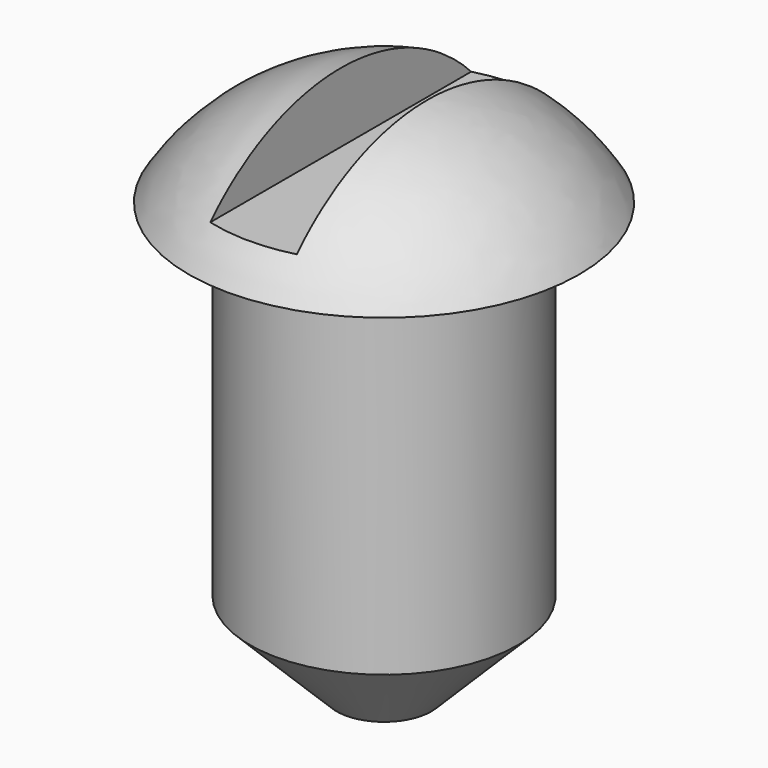
from build123d import *

# Parameters (mm, degrees)
F3_W     = 2.54
F3_H     = 10.16
F4_DEPTH = 25.4
F5_SIZE  = 2.54


with BuildPart() as f1:
    # F0 (on Front) → F1 (revolve)
    with BuildSketch(Plane.XZ):
        with BuildLine():
            Line((0, 9.113751), (0, 0))
            Line((0, 0), (3.932627, 0))
            Line((3.932627, 0), (3.932627, 12.7))
            Line((3.932627, 12.7), (5.73178, 12.7))
            ThreePointArc((5.73178, 12.7), (3.276199, 15.028225), (0, 15.875))
            Line((0, 15.875), (0, 9.113751))
        make_face()
    revolve(axis=Axis((0, 0, -3.129652), (0, 0, -1)))

    # F3 (on offset) → F4 (cut)
    with BuildSketch(Plane.XY.offset(13.716)):
        Rectangle(F3_W, F3_H)
    extrude(amount=F4_DEPTH, mode=Mode.SUBTRACT)

    # F5
    f5_edges = [f1.edges().sort_by_distance(p)[0] for p in [
        (-3.932627, 0, 0),
    ]]
    chamfer(f5_edges, length=F5_SIZE)


solid = f1.part
